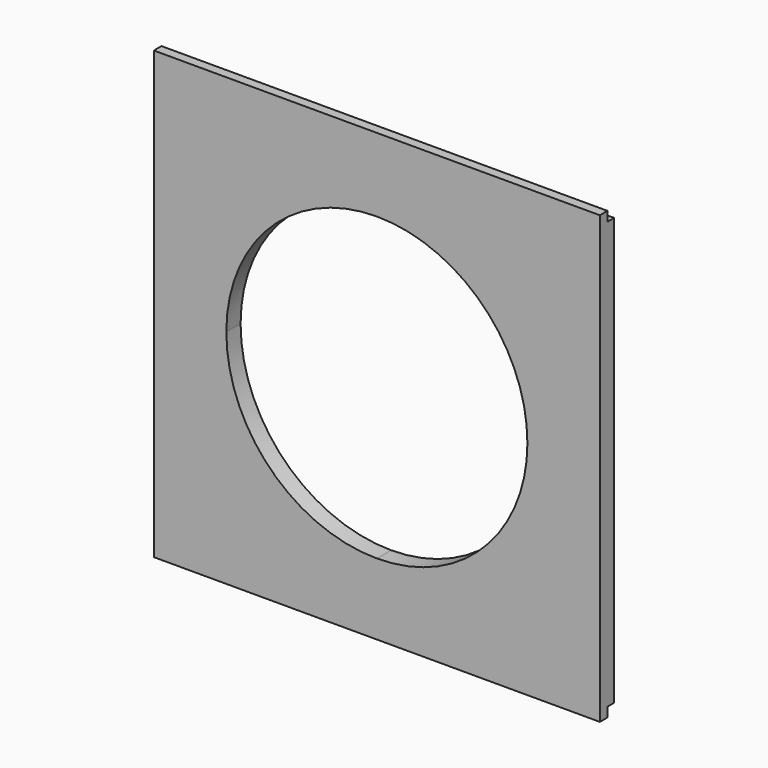
from build123d import *

# Parameters (mm, degrees)
F1_DEPTH = 17.78
F2_W     = 8.255
F2_H     = 9.525
F3_DEPTH = 444.5


with BuildPart() as f1:
    # F0 (on Front) → F1 (new body)
    with BuildSketch(Plane.XZ):
        with BuildLine():
            Line((-20.807824, 223.357201), (-243.057824, 223.357201))
            Line((-243.057824, 223.357201), (-243.057824, -221.142799))
            Line((-243.057824, -221.142799), (-230.357824, -221.142799))
            Line((-230.357824, -221.142799), (-224.007824, -221.142799))
            Line((-224.007824, -221.142799), (-20.807824, -221.142799))
            Line((-20.807824, -221.142799), (-20.807824, -150.01875))
            ThreePointArc((-20.807824, -150.01875), (-126.8871, -106.079275), (-170.826574, 0))
            ThreePointArc((-170.826574, 0), (-126.8871, 106.079275), (-20.807824, 150.01875))
            Line((-20.807824, 150.01875), (-20.807824, 223.357201))
        make_face()
        with BuildLine():
            Line((201.442176, 223.357201), (-20.807824, 223.357201))
            Line((-20.807824, 223.357201), (-20.807824, 150.01875))
            ThreePointArc((-20.807824, 150.01875), (85.271451, 106.079275), (129.210926, 0))
            ThreePointArc((129.210926, 0), (85.271451, -106.079275), (-20.807824, -150.01875))
            Line((-20.807824, -150.01875), (-20.807824, -221.142799))
            Line((-20.807824, -221.142799), (182.392176, -221.142799))
            Line((182.392176, -221.142799), (188.742176, -221.142799))
            Line((188.742176, -221.142799), (201.442176, -221.142799))
            Line((201.442176, -221.142799), (201.442176, 223.357201))
        make_face()
    extrude(amount=F1_DEPTH)

    # F2 (on face) → F3 (cut)
    with BuildSketch(Plane.YZ.offset(201.442176)):
        with Locations((-4.1275, 218.594701)):
            Rectangle(F2_W, F2_H)
        with Locations((-4.1275, -216.380299)):
            Rectangle(F2_W, F2_H)
    extrude(amount=-F3_DEPTH, mode=Mode.SUBTRACT)


solid = f1.part
